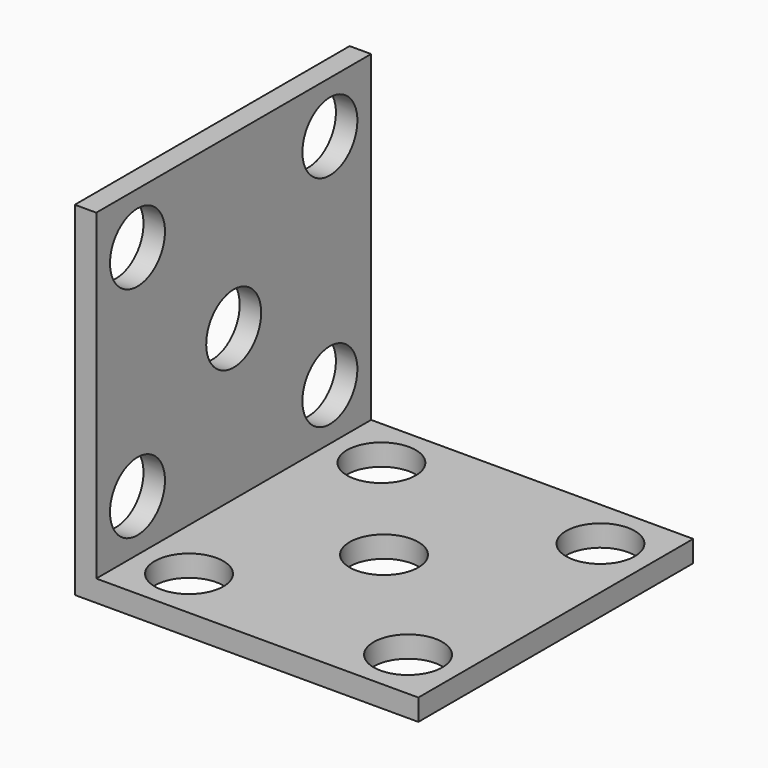
from build123d import *

# Parameters (mm, degrees)
PAD_DEPTH       = 40
SKETCH001_R     = 4
POCKET_DEPTH    = 2.501
SKETCH002_R     = 4
POCKET001_DEPTH = 2.501


with BuildPart() as part:
    # Sketch → Pad (new body)
    with BuildSketch(Plane.XZ):
        Polygon((0, 0), (0, 40), (2.5, 40), (2.5, 2.5), (40, 2.5), (40, 0), align=None)
    extrude(amount=PAD_DEPTH)

    # Sketch001 (on Face3 of Pad) → Pocket (cut, through all)
    with BuildSketch(Plane(origin=(2.5, 0, 0), x_dir=(0, 0, 1), z_dir=(1, 0, 0))):
        with Locations((8.5, 34)):
            Circle(SKETCH001_R)
        with Locations((34, 34)):
            Circle(SKETCH001_R)
        with Locations((8.5, 6)):
            Circle(SKETCH001_R)
        with Locations((34, 6)):
            Circle(SKETCH001_R)
        with Locations((20, 20)):
            Circle(SKETCH001_R)
    extrude(amount=-POCKET_DEPTH, mode=Mode.SUBTRACT)

    # Sketch002 (on Face13 of Pocket) → Pocket001 (cut, through all)
    with BuildSketch(Plane(origin=(0, 0, 2.5), x_dir=(-1, 0, 0), z_dir=(0, 0, 1))):
        with Locations((-8.5, 6)):
            Circle(SKETCH002_R)
        with Locations((-34, 6)):
            Circle(SKETCH002_R)
        with Locations((-8.5, 34)):
            Circle(SKETCH002_R)
        with Locations((-34, 34)):
            Circle(SKETCH002_R)
        with Locations((-20, 20)):
            Circle(SKETCH002_R)
    extrude(amount=-POCKET001_DEPTH, mode=Mode.SUBTRACT)


solid = part.part
